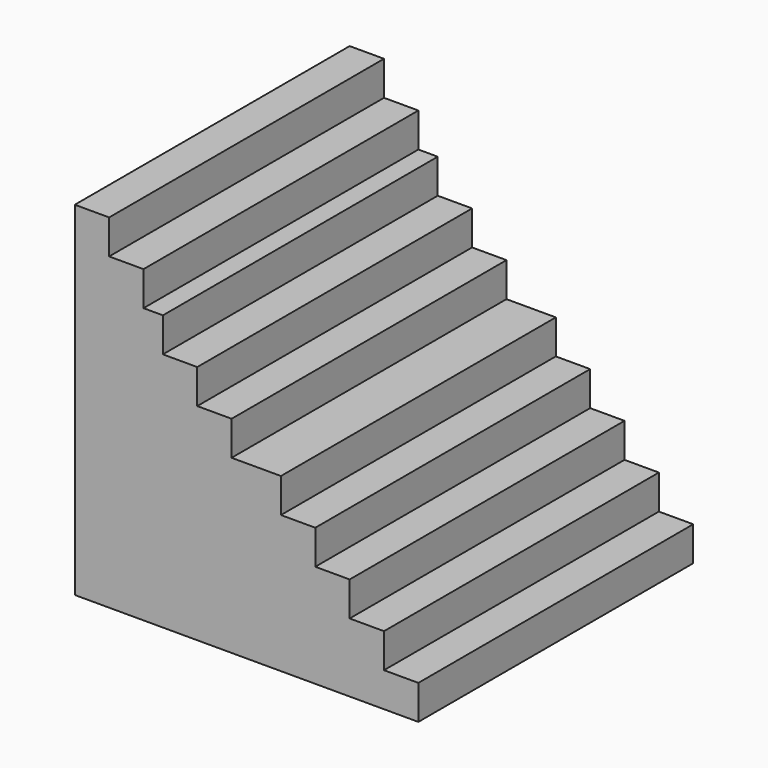
from build123d import *

# Parameters (mm, degrees)
F1_DEPTH = 2540


with BuildPart() as f1:
    # F0 (on Front) → F1 (new body)
    with BuildSketch(Plane.XZ):
        Polygon((-628.78668, 1763.080694), (-882.78668, 1763.080694), (-882.78668, -776.919306), (1657.21332, -776.919306), (1657.21332, -522.919306), (1403.21332, -522.919306), (1403.21332, -268.919306), (1149.21332, -268.919306), (1149.21332, -14.919306), (895.21332, -14.919306), (895.21332, 239.080694), (641.21332, 239.080694), (641.21332, 493.080694), (276.569884, 493.080694), (276.569884, 747.080694), (22.569884, 747.080694), (22.569884, 1001.080694), (-231.430116, 1001.080694), (-231.430116, 1255.080694), (-374.78668, 1255.080694), (-374.78668, 1509.080694), (-628.78668, 1509.080694), align=None)
    extrude(amount=F1_DEPTH)


solid = f1.part
